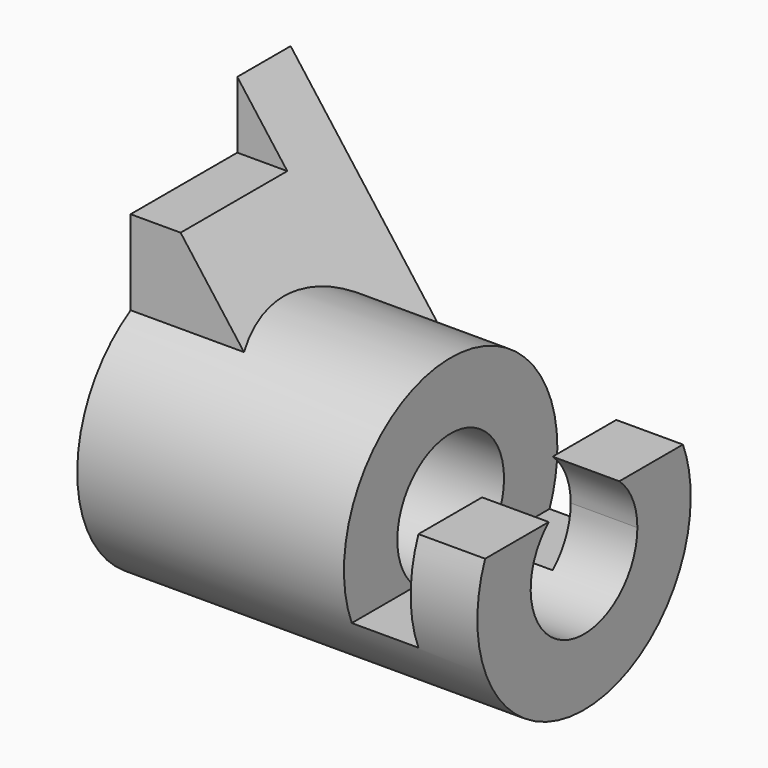
from build123d import *

# Parameters (mm, degrees)
F0_R      = 25.4
F0_R_2    = 12.7
F1_DEPTH  = 76.2
F3_DEPTH  = 76.2
F5_DEPTH  = 25.4
F6_DEPTH  = 25.4
F7_DEPTH  = 12.7
F8_W      = 25.4
F8_H      = 12.7
F9_DEPTH  = 25.4
F10_DEPTH = 50.8


with BuildPart() as f1:
    # F0 (on Right) → F1 (new body)
    with BuildSketch(Plane.YZ):
        Circle(F0_R)
        Circle(F0_R_2, mode=Mode.SUBTRACT)
    extrude(amount=F1_DEPTH)

    # F0 (on Right) → F3 (cut)
    with BuildSketch(Plane.YZ):
        Circle(F0_R_2)
    extrude(amount=F3_DEPTH, mode=Mode.SUBTRACT)

    # F2 (on Front) → F5 (cut, symmetric)
    with BuildSketch(Plane.XZ):
        Polygon((76.2, 25.4), (50.8, 25.4), (50.8, -9.525), (63.5, -9.525), (63.5, 9.525), (76.2, 9.525), align=None)
    extrude(amount=F5_DEPTH, both=True, mode=Mode.SUBTRACT)

    # F4 (on Front) → F6 (join)
    with BuildSketch(Plane.XZ):
        Polygon((0, 50.8), (0, 0), (38.1, 0), align=None)
    extrude(amount=-F6_DEPTH)

    # F4 (on Front) → F7 (join)
    with BuildSketch(Plane.XZ):
        Polygon((0, 50.8), (0, 0), (38.1, 0), align=None)
    extrude(amount=F7_DEPTH)

    # F8 (on Right) → F9 (cut)
    with BuildSketch(Plane.YZ):
        with Locations((0, 44.45)):
            Rectangle(F8_W, F8_H)
    extrude(amount=F9_DEPTH, mode=Mode.SUBTRACT)

    # F0 (on Right) → F10 (cut)
    with BuildSketch(Plane.YZ):
        Circle(F0_R_2)
    extrude(amount=F10_DEPTH, mode=Mode.SUBTRACT)


solid = f1.part
